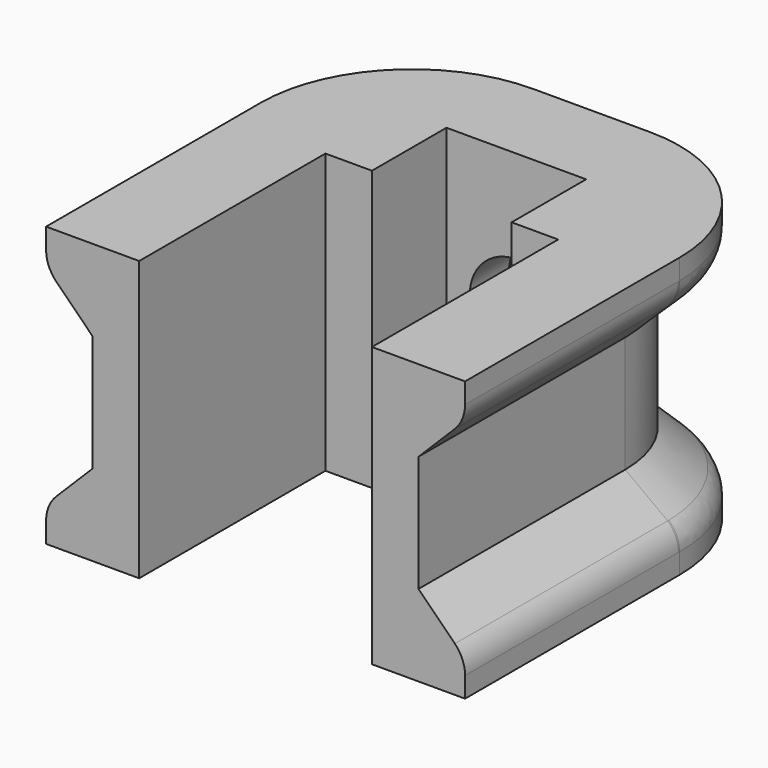
from build123d import *

# Parameters (mm, degrees)
SKETCH007_R  = 4
POCKET_DEPTH = 36.039519
FILLET_R     = 3


with BuildPart() as part:
    # Sketch001 → AdditiveLoft section 0
    with BuildSketch(Plane.XY):
        with BuildLine():
            Line((-18, 0), (-10, 0))
            Line((-10, 0), (-10, 20))
            Line((-10, 20), (-6, 20))
            Line((-6, 20), (-6, 28))
            Line((-6, 28), (6, 28))
            Line((6, 28), (6, 20))
            Line((6, 20), (10, 20))
            Line((10, 20), (10, 0))
            Line((10, 0), (18, 0))
            Line((18, 0), (18, 23.038519))
            ThreePointArc((18, 23.038519), (14.192388, 32.230907), (5, 36.038519))
            Line((-5, 36.038519), (5, 36.038519))
            ThreePointArc((-5, 36.038519), (-14.192388, 32.230907), (-18, 23.038519))
            Line((-18, 0), (-18, 23.038519))
        make_face()
    # Sketch003 → AdditiveLoft section 1
    with BuildSketch(Plane.XY.offset(3)):
        with BuildLine():
            Line((-18, 0), (-10, 0))
            Line((-10, 0), (-10, 20))
            Line((-10, 20), (-6, 20))
            Line((-6, 20), (-6, 28))
            Line((-6, 28), (6, 28))
            Line((6, 28), (6, 20))
            Line((6, 20), (10, 20))
            Line((10, 20), (10, 0))
            Line((10, 0), (18, 0))
            Line((18, 0), (18, 23.038519))
            ThreePointArc((18, 23.038519), (14.192388, 32.230907), (5, 36.038519))
            Line((-5, 36.038519), (5, 36.038519))
            ThreePointArc((-5, 36.038519), (-14.192388, 32.230907), (-18, 23.038519))
            Line((-18, 0), (-18, 23.038519))
        make_face()
    # Sketch002 → AdditiveLoft section 2
    with BuildSketch(Plane.XY.offset(7)):
        with BuildLine():
            ThreePointArc((-4, 32.202041), (-11.071068, 29.273109), (-14, 22.202041))
            Line((-14, 22.202041), (-14, 0))
            Line((-14, 0), (-10, 0))
            Line((-10, 0), (-10, 20))
            Line((-10, 20), (-6, 20))
            Line((-6, 20), (-6, 28))
            Line((-6, 28), (6, 28))
            Line((6, 28), (6, 20))
            Line((6, 20), (10, 20))
            Line((10, 20), (10, 0))
            Line((14, 0), (10, 0))
            Line((14, 22.202041), (14, 0))
            ThreePointArc((14, 22.202041), (11.071068, 29.273109), (4, 32.202041))
            Line((-4, 32.202041), (4, 32.202041))
        make_face()
    # Sketch006 → AdditiveLoft section 3
    with BuildSketch(Plane.XY.offset(17)):
        with BuildLine():
            ThreePointArc((-4, 32.202041), (-11.071068, 29.273109), (-14, 22.202041))
            Line((-14, 22.202041), (-14, 0))
            Line((-14, 0), (-10, 0))
            Line((-10, 0), (-10, 20))
            Line((-10, 20), (-6, 20))
            Line((-6, 20), (-6, 28))
            Line((-6, 28), (6, 28))
            Line((6, 28), (6, 20))
            Line((6, 20), (10, 20))
            Line((10, 20), (10, 0))
            Line((14, 0), (10, 0))
            Line((14, 22.202041), (14, 0))
            ThreePointArc((14, 22.202041), (11.071068, 29.273109), (4, 32.202041))
            Line((-4, 32.202041), (4, 32.202041))
        make_face()
    # Sketch004 → AdditiveLoft section 4
    with BuildSketch(Plane.XY.offset(21)):
        with BuildLine():
            Line((-18, 0), (-10, 0))
            Line((-10, 0), (-10, 20))
            Line((-10, 20), (-6, 20))
            Line((-6, 20), (-6, 28))
            Line((-6, 28), (6, 28))
            Line((6, 28), (6, 20))
            Line((6, 20), (10, 20))
            Line((10, 20), (10, 0))
            Line((10, 0), (18, 0))
            Line((18, 0), (18, 23.038519))
            ThreePointArc((18, 23.038519), (14.192388, 32.230907), (5, 36.038519))
            Line((-5, 36.038519), (5, 36.038519))
            ThreePointArc((-5, 36.038519), (-14.192388, 32.230907), (-18, 23.038519))
            Line((-18, 0), (-18, 23.038519))
        make_face()
    # Sketch005 → AdditiveLoft section 5
    with BuildSketch(Plane.XY.offset(24)):
        with BuildLine():
            Line((-18, 0), (-10, 0))
            Line((-10, 0), (-10, 20))
            Line((-10, 20), (-6, 20))
            Line((-6, 20), (-6, 28))
            Line((-6, 28), (6, 28))
            Line((6, 28), (6, 20))
            Line((6, 20), (10, 20))
            Line((10, 20), (10, 0))
            Line((10, 0), (18, 0))
            Line((18, 0), (18, 23.038519))
            ThreePointArc((18, 23.038519), (14.192388, 32.230907), (5, 36.038519))
            Line((-5, 36.038519), (5, 36.038519))
            ThreePointArc((-5, 36.038519), (-14.192388, 32.230907), (-18, 23.038519))
            Line((-18, 0), (-18, 23.038519))
        make_face()
    loft(ruled=True)

    # Sketch007 → Pocket (cut, through all)
    with BuildSketch(Plane(origin=(0, 0, 12), x_dir=(1, 0, 0), z_dir=(0, -1, 0))):
        Circle(SKETCH007_R)
    extrude(amount=-POCKET_DEPTH, mode=Mode.SUBTRACT)

    # Fillet
    fillet_edges = [part.edges().sort_by_distance(p)[0] for p in [
        (0, 36.038519, 3),
        (0, 36.038519, 21),
    ]]
    fillet(fillet_edges, radius=FILLET_R)


solid = part.part
